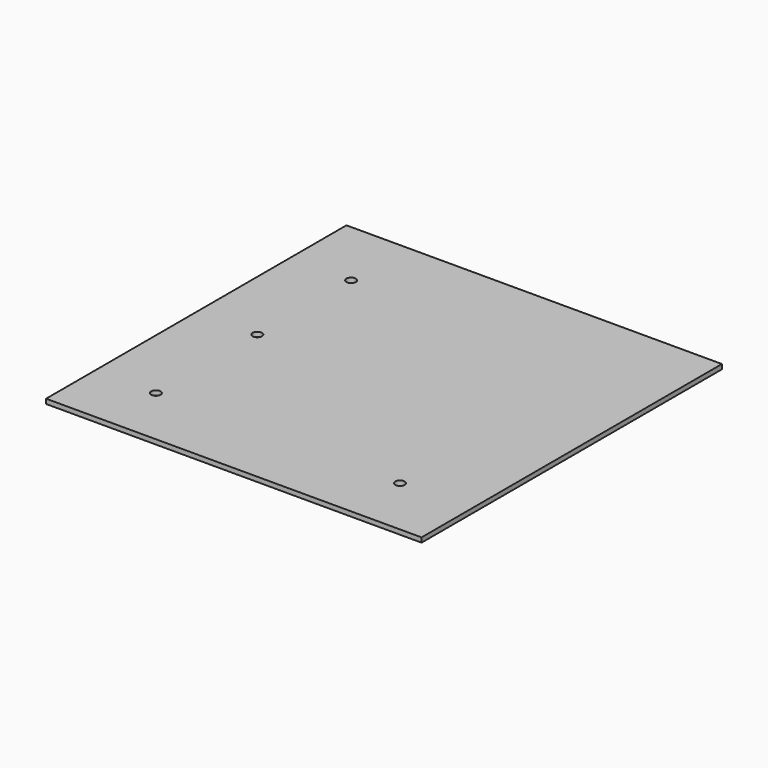
from build123d import *

# Parameters (mm, degrees)
F0_R     = 5
F0_W     = 260
F0_H     = 130
F1_DEPTH = 5
F0_W_2   = 130
F0_H_2   = 120
F2_DEPTH = 5


with BuildPart() as f1:
    # F0 (on Top) → F1 (new body)
    with BuildSketch(Plane.XY):
        Polygon((200, 200), (-200, 200), (-200, 190), (60, 190), (60, 180), (190, 180), (190, 60), (190, -200), (200, -200), align=None)
        Polygon((60, 190), (-200, 190), (-200, 60), (60, 60), (60, 180), align=None)
        with Locations((-135, 125)):
            Circle(F0_R, mode=Mode.SUBTRACT)
        with Locations((-70, -5)):
            Rectangle(F0_W, F0_H)
        with Locations((-135, 0)):
            Circle(F0_R, mode=Mode.SUBTRACT)
        Polygon((60, -200), (190, -200), (190, 60), (60, 60), (60, -70), align=None)
        with Locations((125, -135)):
            Circle(F0_R, mode=Mode.SUBTRACT)
        with Locations((-70, -135)):
            Rectangle(F0_W, F0_H)
        with Locations((-135, -135)):
            Circle(F0_R, mode=Mode.SUBTRACT)
    extrude(amount=F1_DEPTH)

    # F0 (on Top) → F2 (join)
    with BuildSketch(Plane.XY):
        with Locations((125, 120)):
            Rectangle(F0_W_2, F0_H_2)
    extrude(amount=F2_DEPTH)


solid = f1.part
